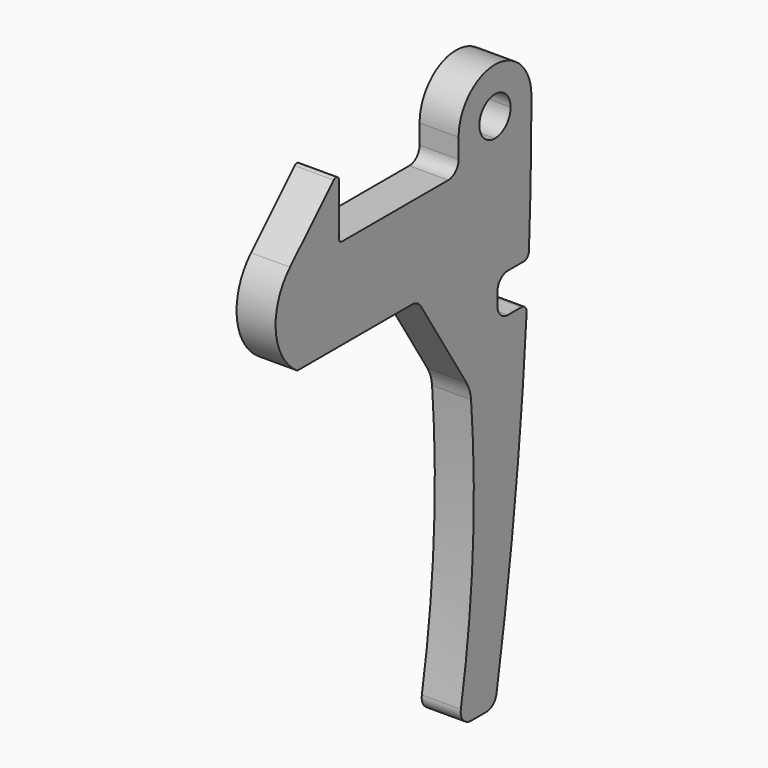
from build123d import *

# Parameters (mm, degrees)
F1_DEPTH = 3


with BuildPart() as f1:
    # F0 (on Right) → F1 (new body)
    with BuildSketch(Plane.YZ):
        with BuildLine():
            ThreePointArc((0, -1.5), (1.06066, -1.06066), (1.5, 0))
            ThreePointArc((1.5, 0), (-1.06066, 1.06066), (0, -1.5))
        make_face()
        with BuildLine():
            ThreePointArc((3.261329, -10.48262), (3.440324, -5.242668), (3.5, 0))
            ThreePointArc((3.5, 0), (0, 3.5), (-3.5, 0))
            Line((-3.5, 0), (-3.5, -1.5))
            ThreePointArc((-3.5, -1.5), (-3.792893, -2.207107), (-4.5, -2.5))
            Line((-4.5, -2.5), (-14.7, -2.5))
            ThreePointArc((-14.7, -2.5), (-14.912132, -2.412132), (-15, -2.2))
            Line((-15, -2.2), (-15, 1.775736))
            ThreePointArc((-15, 1.775736), (-15.185195, 2.0529), (-15.512132, 1.987868))
            Line((-15.512132, 1.987868), (-19.707107, -2.207107))
            ThreePointArc((-19.707107, -2.207107), (-21.074807, -6.020443), (-19, -9.5))
            Line((-19, -9.5), (-7.970878, -9.5))
            ThreePointArc((-7.970878, -9.5), (-7.487548, -9.624562), (-7.124626, -9.967216))
            Line((-7.124626, -9.967216), (-2.749691, -16.916178))
            ThreePointArc((-2.749691, -16.916178), (-2.442055, -17.566868), (-2.298256, -18.272106))
            ThreePointArc((-2.298256, -18.272106), (-2.127637, -28.579939), (-3.28129, -38.82443))
            ThreePointArc((-3.28129, -38.82443), (-3.063494, -39.64204), (-2.296823, -40))
            Line((-2.296823, -40), (-0.840638, -40))
            ThreePointArc((-0.840638, -40), (-0.196459, -39.764875), (0.144794, -39.170067))
            ThreePointArc((0.144794, -39.170067), (1.927284, -26.869816), (3.043667, -14.491322))
            ThreePointArc((3.043667, -14.491322), (2.909164, -14.117613), (2.544657, -13.959863))
            Line((2.544657, -13.959863), (1.239089, -13.959863))
            ThreePointArc((1.239089, -13.959863), (0.531982, -13.66697), (0.239089, -12.959863))
            Line((0.239089, -12.959863), (0.239089, -11.959863))
            ThreePointArc((0.239089, -11.959863), (0.531982, -11.252757), (1.239089, -10.959863))
            Line((1.239089, -10.959863), (2.761847, -10.959863))
            ThreePointArc((2.761847, -10.959863), (3.107261, -10.821373), (3.261329, -10.48262))
        make_face()
        with BuildLine():
            ThreePointArc((0, -1.5), (-1.06066, 1.06066), (1.5, 0))
            ThreePointArc((1.5, 0), (1.06066, -1.06066), (0, -1.5))
        make_face(mode=Mode.SUBTRACT)
    extrude(amount=F1_DEPTH)


solid = f1.part
